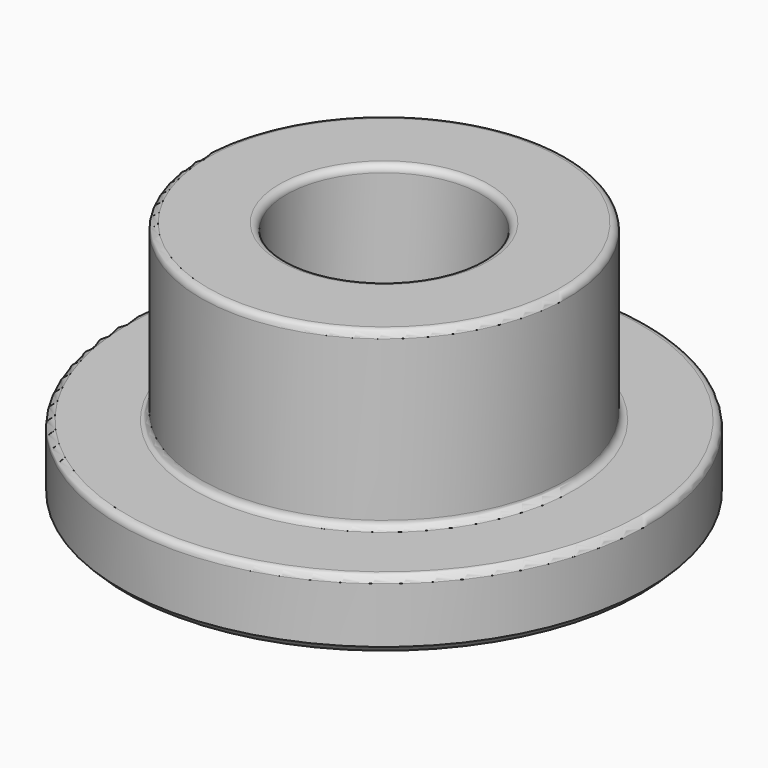
from build123d import *

# Parameters (mm, degrees)
F2_SIZE = 1
F3_R    = 1


with BuildPart() as f1:
    # F0 (on Right) → F1 (revolve)
    with BuildSketch(Plane.YZ):
        Polygon((-38, 10), (-38, 0), (-17.125, 0), (-17.125, 16.925), (-14.05, 20), (-14.05, 35), (-26.4, 35), (-26.4, 10), align=None)
    revolve(axis=Axis((0, 0, 24.570201), (0, 0, -1)))

    # F2
    f2_edges = [f1.edges().sort_by_distance(p)[0] for p in [
        (0, 38, 0),
        (0, 17.125, 0),
    ]]
    chamfer(f2_edges, length=F2_SIZE)

    # F3
    f3_edges = [f1.edges().sort_by_distance(p)[0] for p in [
        (0, 14.05, 35),
        (0, 26.4, 35),
        (0, 38, 10),
        (0, 26.4, 10),
    ]]
    fillet(f3_edges, radius=F3_R)


solid = f1.part
